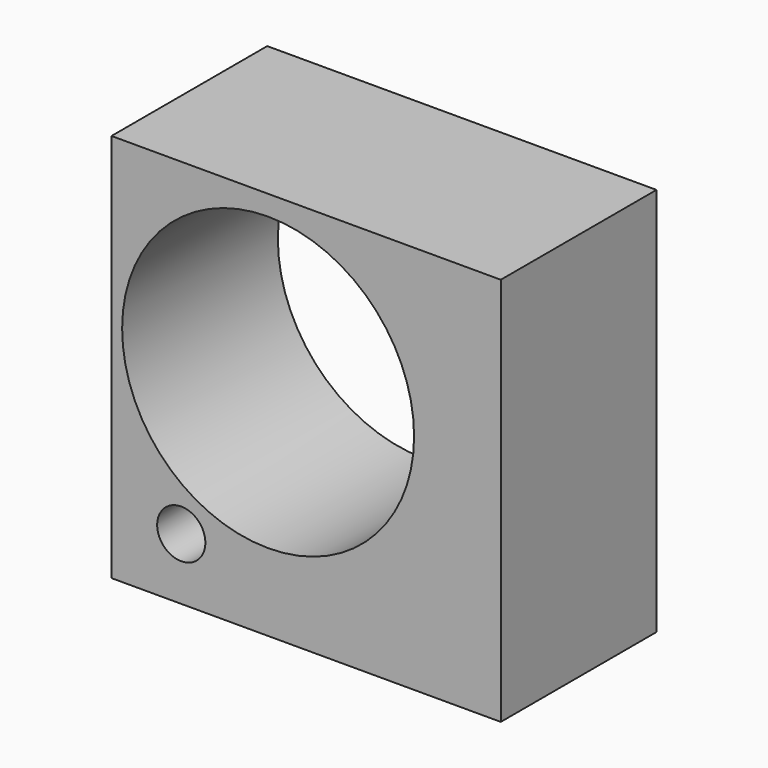
from build123d import *

# Parameters (mm, degrees)
F0_W     = 50.8
F0_H     = 50.8
F0_R     = 3.146652
F0_R_2   = 19.05
F1_DEPTH = 25.4
F2_DEPTH = 12.7


with BuildPart() as f1:
    # F0 (on Front) → F1 (new body)
    with BuildSketch(Plane.XZ):
        with Locations((25.4, 25.4)):
            Rectangle(F0_W, F0_H)
        with Locations((9.101667, 8.043333)):
            Circle(F0_R, mode=Mode.SUBTRACT)
        with Locations((20.43549, 29.136131)):
            Circle(F0_R_2, mode=Mode.SUBTRACT)
    extrude(amount=F1_DEPTH)

    # F0 (on Front) → F2 (join)
    with BuildSketch(Plane.XZ):
        with Locations((9.101667, 8.043333)):
            Circle(F0_R)
    extrude(amount=F2_DEPTH)


solid = f1.part
